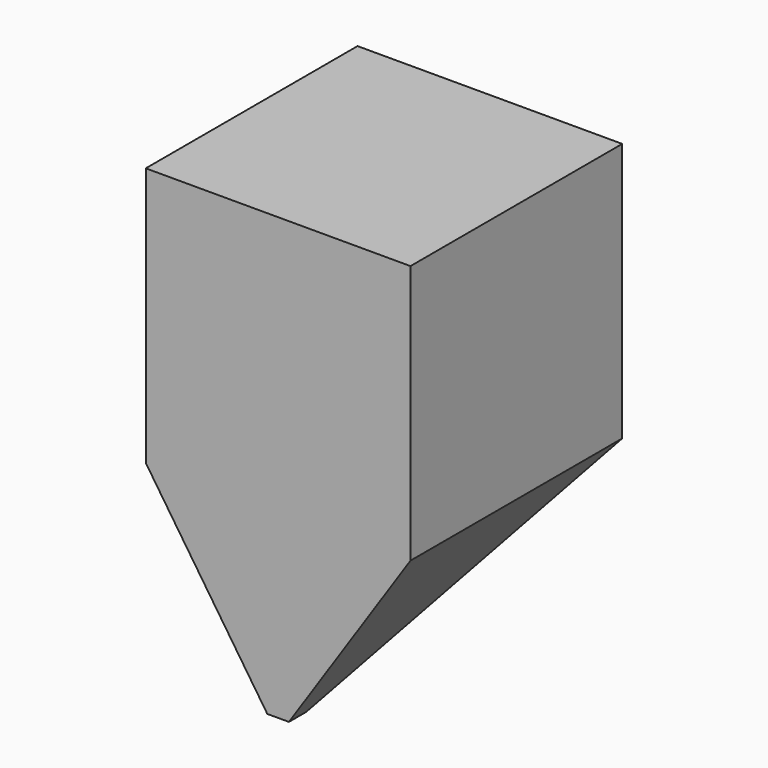
from build123d import *

# Parameters (mm, degrees)
F0_W      = 2450
F0_H      = 2450
F1_DEPTH  = 2400
F1_FACE_W = 2450
F1_FACE_H = 2450
F3_W      = 200
F3_H      = 200
F5_DEPTH  = 400
F5_FACE_W = 2450
F5_FACE_H = 2450
F6_DEPTH  = 400


with BuildPart() as f1:
    # F0 (on Top) → F1 (new body)
    with BuildSketch(Plane.XY):
        Rectangle(F0_W, F0_H)
    extrude(amount=F1_DEPTH)

    # F1_face (on face) → F4 section 0
    with BuildSketch(Plane(origin=(0, 0, 0), x_dir=(1, 0, 0), z_dir=(0, 0, -1))):
        Rectangle(F1_FACE_W, F1_FACE_H)
    # F3 (on offset) → F4 section 1
    with BuildSketch(Plane(origin=(0, 0, -1680), x_dir=(1, 0, 0), z_dir=(0, 0, -1))):
        with Locations((0, 1125)):
            Rectangle(F3_W, F3_H)
    loft()


with BuildPart() as f5:
    # F1_face (on face) → F5 (new body)
    with BuildSketch(Plane(origin=(0, 0, 0), x_dir=(1, 0, 0), z_dir=(0, 0, -1))):
        Rectangle(F1_FACE_W, F1_FACE_H)
    extrude(amount=F5_DEPTH)


with BuildPart() as f6:
    # F5_face (on face) → F6 (new body)
    with BuildSketch(Plane(origin=(0, 0, -400), x_dir=(1, 0, 0), z_dir=(0, 0, -1))):
        Rectangle(F5_FACE_W, F5_FACE_H)
    extrude(amount=F6_DEPTH)


solid = f1.part
